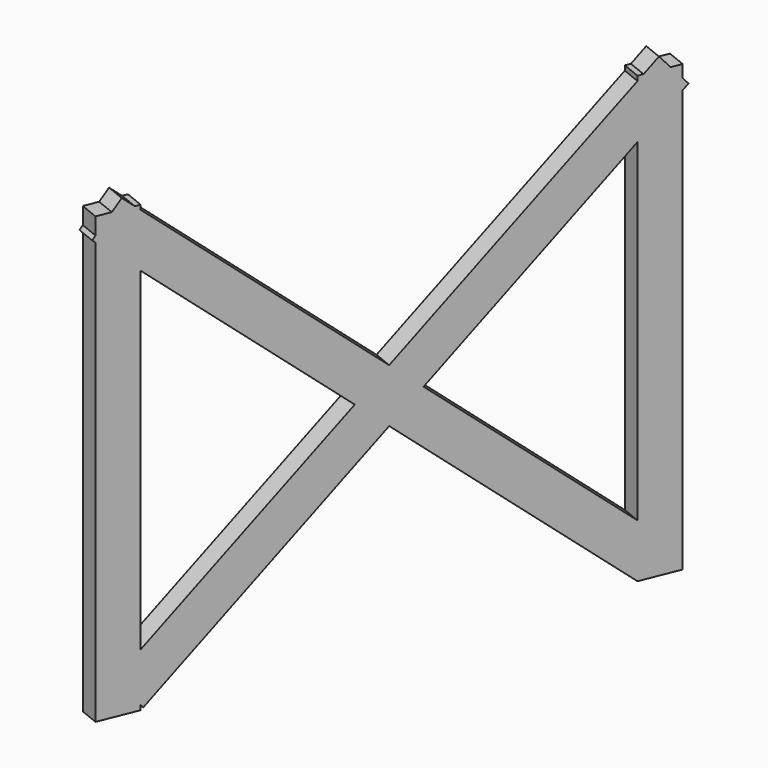
from build123d import *

# Parameters (mm, degrees)
BOX216_W                  = 0.5
BOX216_H                  = 1
BOX216_DEPTH              = 11
BOX217_W                  = 0.5
BOX217_H                  = 1
BOX217_DEPTH              = 16
BOX217_ROLL_ANGLE         = 49
BOX218_W                  = 0.5
BOX218_H                  = 1
BOX218_DEPTH              = 16
BOX218_ROLL_ANGLE         = -49
BOX215_W                  = 0.5
BOX215_H                  = 1
BOX215_DEPTH              = 11
FUSION016_PLACEMENT_ANGLE = -22


with BuildPart() as cubo216:
    # Box216 → Box216 (new body)
    with BuildSketch(Plane(origin=(0, 12, 0.5), x_dir=(1, 0, 0), z_dir=(0, 0, 1))):
        with Locations((0.25, 0.5)):
            Rectangle(BOX216_W, BOX216_H)
    extrude(amount=BOX216_DEPTH)


with BuildPart() as cubo217:
    # Box217 → Box217 (new body)
    with BuildSketch(Plane.XY):
        with Locations((0.25, 0.5)):
            Rectangle(BOX217_W, BOX217_H)
    extrude(amount=BOX217_DEPTH)


with BuildPart() as cubo217_1:
    # Box217 roll: moved
    add(cubo217.part.rotate(Axis((0, 0, 0), (1, 0, 0)), BOX217_ROLL_ANGLE))


with BuildPart() as cubo217_2:
    # Box217 placement: moved
    add(cubo217_1.part.moved(Location((0, 12, 0.5))))


with BuildPart() as cubo218:
    # Box218 → Box218 (new body)
    with BuildSketch(Plane.XY):
        with Locations((0.25, 0.5)):
            Rectangle(BOX218_W, BOX218_H)
    extrude(amount=BOX218_DEPTH)


with BuildPart() as cubo218_1:
    # Box218 roll: moved
    add(cubo218.part.rotate(Axis((0, 0, 0), (1, 0, 0)), BOX218_ROLL_ANGLE))


with BuildPart() as cubo218_2:
    # Box218 placement: moved
    add(cubo218_1.part.moved(Location((0, 0.4, 1.3))))


with BuildPart() as fusion016:
    # Box215 → Box215 (new body)
    with BuildSketch(Plane.XY.offset(0.5)):
        with Locations((0.25, 0.5)):
            Rectangle(BOX215_W, BOX215_H)
    extrude(amount=BOX215_DEPTH)

    # Fusion016: union Cubo216, Cubo217, Cubo218
    add(cubo216.part)
    add(cubo217_2.part)
    add(cubo218_2.part)


with BuildPart() as fusion016_1:
    # Fusion016 placement: moved
    add(fusion016.part.moved(Location((-219.5, 82, 0))).rotate(Axis((-219.5, 82, 0), (0, 0, 1)), FUSION016_PLACEMENT_ANGLE))


solid = fusion016_1.part
